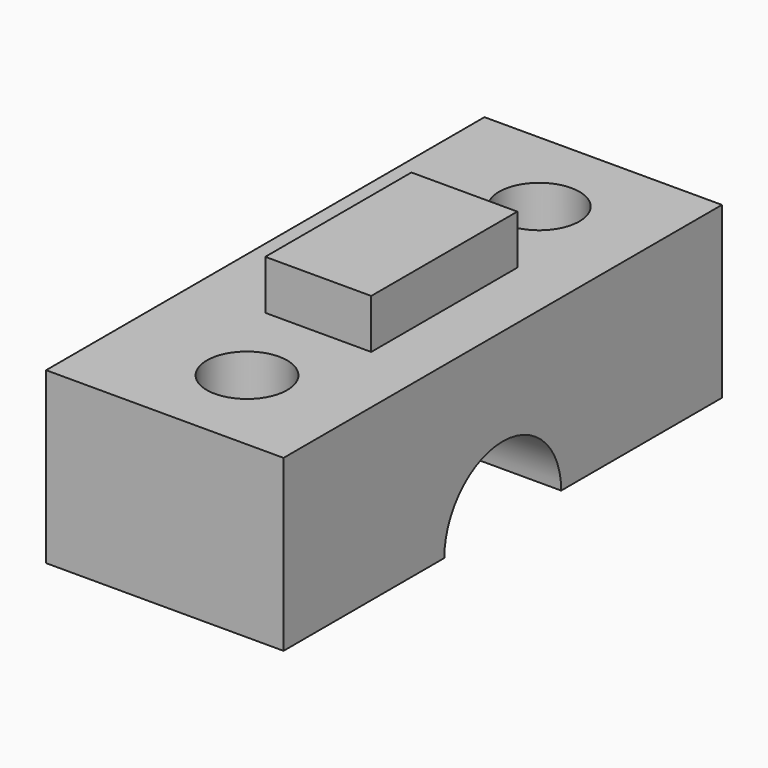
from build123d import *

# Parameters (mm, degrees)
BOX056_W                  = 10
BOX056_H                  = 4
BOX056_DEPTH              = 5.8
CYLINDER077_R             = 2.2
CYLINDER077_DEPTH         = 25
CYLINDER076_R             = 2.2
CYLINDER076_DEPTH         = 25
CYLINDER075_R             = 4
CYLINDER075_DEPTH         = 6
BOX055_W                  = 30
BOX055_H                  = 9.3
BOX055_DEPTH              = 13
FUSION042_ROLL_ANGLE      = 90
FUSION042_PLACEMENT_ANGLE = 90


with BuildPart() as quader035:
    # Box056 → Box056 (new body)
    with BuildSketch(Plane(origin=(-5, 8, 2), x_dir=(1, 0, 0), z_dir=(0, 0, 1))):
        with Locations((5, 2)):
            Rectangle(BOX056_W, BOX056_H)
    extrude(amount=BOX056_DEPTH)


with BuildPart() as zylinder066:
    # Cylinder077 → Cylinder077 (new body)
    with BuildSketch(Plane(origin=(-10, 12, 5), x_dir=(1, 0, 0), z_dir=(0, -1, 0))):
        Circle(CYLINDER077_R)
    extrude(amount=CYLINDER077_DEPTH)


with BuildPart() as zylinder065:
    # Cylinder076 → Cylinder076 (new body)
    with BuildSketch(Plane(origin=(10, 12, 5), x_dir=(1, 0, 0), z_dir=(0, -1, 0))):
        Circle(CYLINDER076_R)
    extrude(amount=CYLINDER076_DEPTH)


with BuildPart() as zylinder064:
    # Cylinder075 → Cylinder075 (new body)
    with BuildSketch(Plane.XY.offset(5.8)):
        Circle(CYLINDER075_R)
    extrude(amount=CYLINDER075_DEPTH)


with BuildPart() as y_drive_mount001:
    # Box055 → Box055 (new body)
    with BuildSketch(Plane(origin=(-15, 0, -2), x_dir=(1, 0, 0), z_dir=(0, 0, 1))):
        with Locations((15, 4.65)):
            Rectangle(BOX055_W, BOX055_H)
    extrude(amount=BOX055_DEPTH)

    # Cut084: cut Zylinder064
    add(zylinder064.part, mode=Mode.SUBTRACT)

    # Cut085: cut Zylinder065
    add(zylinder065.part, mode=Mode.SUBTRACT)

    # Cut086: cut Zylinder066
    add(zylinder066.part, mode=Mode.SUBTRACT)

    # Fusion042: union Quader035
    add(quader035.part)


with BuildPart() as y_drive_mount001_1:
    # Fusion042 roll: moved
    add(y_drive_mount001.part.rotate(Axis((0, 0, 0), (1, 0, 0)), FUSION042_ROLL_ANGLE))


with BuildPart() as y_drive_mount001_2:
    # Fusion042 placement: moved
    add(y_drive_mount001_1.part.moved(Location((-32.75, 18.85, 53.2))).rotate(Axis((-32.75, 18.85, 53.2), (0, 0, 1)), FUSION042_PLACEMENT_ANGLE))


solid = y_drive_mount001_2.part
